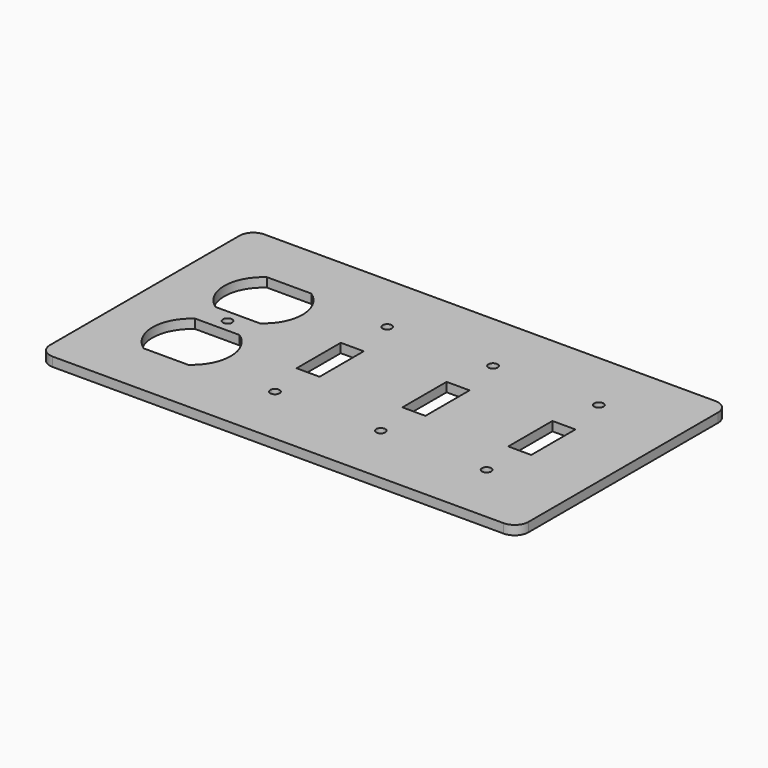
from build123d import *

# Parameters (mm, degrees)
F0_W     = 208
F0_H     = 115
F0_R     = 2
F0_W_2   = 10
F0_H_2   = 24
F1_DEPTH = 4
F2_R     = 6
F4_R     = 2
F4_R_2   = 17
F5_DEPTH = 25
F6_W     = 27.550638
F6_H     = 3.205147
F6_W_2   = 29.028984
F6_H_2   = 3.037915
F6_W_3   = 33.224199
F6_H_3   = 3
F7_DEPTH = 4


with BuildPart() as f1:
    # F0 (on Top) → F1 (new body)
    with BuildSketch(Plane.XY):
        with Locations((104, 57.5)):
            Rectangle(F0_W, F0_H)
        with Locations((81, 27)):
            Circle(F0_R, mode=Mode.SUBTRACT)
        with Locations((81, 57)):
            Rectangle(F0_W_2, F0_H_2, mode=Mode.SUBTRACT)
        with Locations((127, 27)):
            Circle(F0_R, mode=Mode.SUBTRACT)
        with Locations((173, 27)):
            Circle(F0_R, mode=Mode.SUBTRACT)
        with Locations((127, 57)):
            Rectangle(F0_W_2, F0_H_2, mode=Mode.SUBTRACT)
        with Locations((173, 57)):
            Rectangle(F0_W_2, F0_H_2, mode=Mode.SUBTRACT)
        with Locations((81, 88)):
            Circle(F0_R, mode=Mode.SUBTRACT)
        with Locations((127, 88)):
            Circle(F0_R, mode=Mode.SUBTRACT)
        with Locations((173, 88)):
            Circle(F0_R, mode=Mode.SUBTRACT)
    extrude(amount=F1_DEPTH)

    # F2
    f2_edges = [f1.edges().sort_by_distance(p)[0] for p in [
        (0, 115, 2),
        (208, 115, 2),
        (208, 0, 2),
        (0, 0, 2),
    ]]
    fillet(f2_edges, radius=F2_R)

    # F4 (on Top) → F5 (cut)
    with BuildSketch(Plane.XY):
        with Locations((36, 57.5)):
            Circle(F4_R)
        with Locations((36, 77)):
            Circle(F4_R_2)
        with Locations((36, 38)):
            Circle(F4_R_2)
    extrude(amount=F5_DEPTH, mode=Mode.SUBTRACT)

    # F6 (on face) → F7 (join)
    with BuildSketch(Plane.XY.offset(4)):
        Polygon((32.74464, 94.836249), (25.32669, 91), (46.063566, 91), (43.255925, 94.420469), align=None)
        with Locations((37.412647, 61.397426)):
            Rectangle(F6_W, F6_H)
        with Locations((37.197317, 53.518957)):
            Rectangle(F6_W_2, F6_H_2)
        with Locations((36.739217, 22.5)):
            Rectangle(F6_W_3, F6_H_3)
    extrude(amount=-F7_DEPTH)


solid = f1.part
